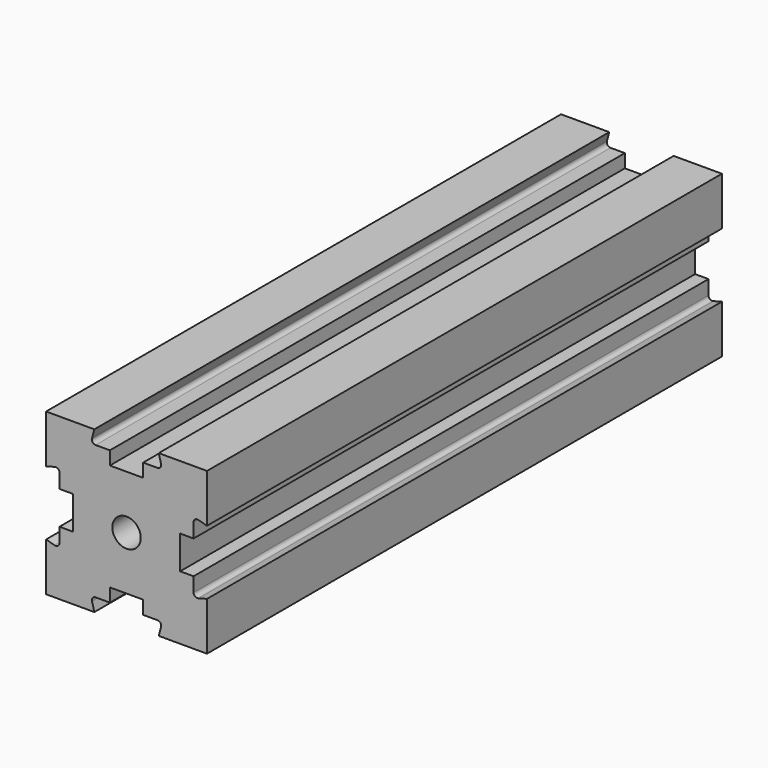
from build123d import *

# Parameters (mm, degrees)
F1_DEPTH = 152.4
F2_R     = 3.3655
F3_DEPTH = 152.401


with BuildPart() as f1:
    # F0 (on Front) → F1 (new body)
    with BuildSketch(Plane.XZ):
        with BuildLine():
            Line((3.937, 15.875), (3.937, 12.7))
            Line((3.937, 12.7), (-3.937, 12.7))
            Line((-3.937, 12.7), (-3.937, 15.875))
            Line((-3.937, 15.875), (-7.321124, 15.875))
            ThreePointArc((-7.321124, 15.875), (-8.020965, 16.220124), (-8.173196, 16.985443))
            Line((-8.173196, 16.985443), (-7.62, 19.05))
            Line((-7.62, 19.05), (-19.05, 19.05))
            Line((-19.05, 19.05), (-19.05, 7.62))
            Line((-19.05, 7.62), (-16.985443, 8.173196))
            ThreePointArc((-16.985443, 8.173196), (-16.220124, 8.020965), (-15.875, 7.321124))
            Line((-15.875, 7.321124), (-15.875, 3.937))
            Line((-15.875, 3.937), (-12.7, 3.937))
            Line((-12.7, 3.937), (-12.7, -3.937))
            Line((-12.7, -3.937), (-15.875, -3.937))
            Line((-15.875, -3.937), (-15.875, -7.321124))
            ThreePointArc((-15.875, -7.321124), (-16.220124, -8.020965), (-16.985443, -8.173196))
            Line((-16.985443, -8.173196), (-19.05, -7.62))
            Line((-19.05, -7.62), (-19.05, -19.05))
            Line((-19.05, -19.05), (-7.62, -19.05))
            Line((-7.62, -19.05), (-8.173196, -16.985443))
            ThreePointArc((-8.173196, -16.985443), (-8.020965, -16.220124), (-7.321124, -15.875))
            Line((-7.321124, -15.875), (-3.937, -15.875))
            Line((-3.937, -15.875), (-3.937, -12.7))
            Line((-3.937, -12.7), (3.937, -12.7))
            Line((3.937, -12.7), (3.937, -15.875))
            Line((3.937, -15.875), (7.321124, -15.875))
            ThreePointArc((7.321124, -15.875), (8.020965, -16.220124), (8.173196, -16.985443))
            Line((8.173196, -16.985443), (7.62, -19.05))
            Line((7.62, -19.05), (19.05, -19.05))
            Line((19.05, -19.05), (19.05, -7.62))
            Line((19.05, -7.62), (16.985443, -8.173196))
            ThreePointArc((16.985443, -8.173196), (16.220124, -8.020965), (15.875, -7.321124))
            Line((15.875, -7.321124), (15.875, -3.937))
            Line((15.875, -3.937), (12.7, -3.937))
            Line((12.7, -3.937), (12.7, 3.937))
            Line((12.7, 3.937), (15.875, 3.937))
            Line((15.875, 3.937), (15.875, 7.321124))
            ThreePointArc((15.875, 7.321124), (16.220124, 8.020965), (16.985443, 8.173196))
            Line((16.985443, 8.173196), (19.05, 7.62))
            Line((19.05, 7.62), (19.05, 19.05))
            Line((19.05, 19.05), (7.62, 19.05))
            Line((7.62, 19.05), (8.173196, 16.985443))
            ThreePointArc((8.173196, 16.985443), (8.020965, 16.220124), (7.321124, 15.875))
            Line((7.321124, 15.875), (3.937, 15.875))
        make_face()
    extrude(amount=F1_DEPTH)

    # F2 (on face) → F3 (cut, through all)
    with BuildSketch(Plane.XZ.offset(152.4)):
        Circle(F2_R)
    extrude(amount=-F3_DEPTH, mode=Mode.SUBTRACT)


solid = f1.part
